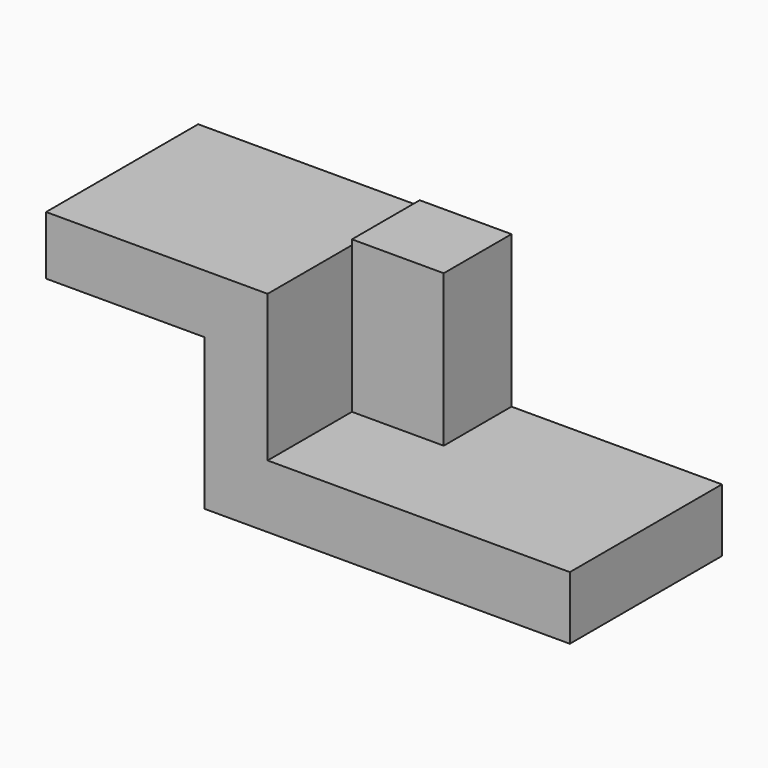
from build123d import *

# Parameters (mm, degrees)
F1_DEPTH = 42.926
F2_W     = 20.731261
F2_H     = 19.1265270114
F3_DEPTH = 34.29


with BuildPart() as f1:
    # F0 (on Front) → F1 (new body)
    with BuildSketch(Plane.XZ):
        Polygon((-22.6943474263, -47.376524657), (59.8004348576, -47.376524657), (59.8004348576, -33.1304371357), (-8.4482617676, -33.1304371357), (-8.4482617676, 0), (-58.4752187133, 0), (-58.4752187133, -13.2521744817), (-22.6943474263, -13.2521744817), align=None)
    extrude(amount=F1_DEPTH)

    # F2 (on face) → F3 (join)
    with BuildSketch(Plane.XY.offset(-33.1304371357)):
        with Locations((1.9173687324, -9.5632635057)):
            Rectangle(F2_W, F2_H)
    extrude(amount=F3_DEPTH)


solid = f1.part
